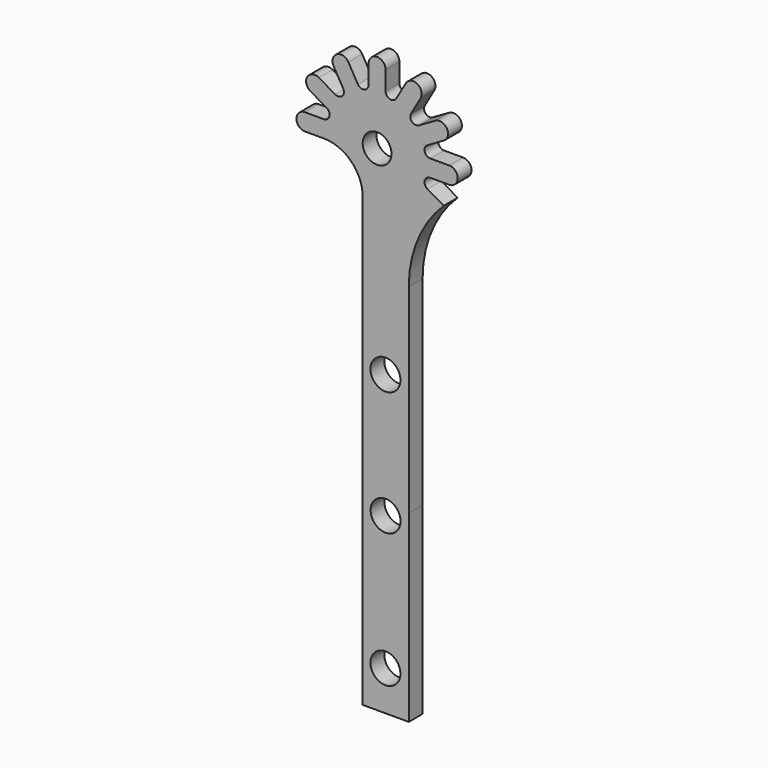
from build123d import *

# Parameters (mm, degrees)
F0_R     = 2.600347
F0_R_2   = 2.5
F1_DEPTH = 3


with BuildPart() as f1:
    # F0 (on Front) → F1 (new body)
    with BuildSketch(Plane.XZ):
        with BuildLine():
            ThreePointArc((-11.107391, 30.109689), (-10.641465, 28.984844), (-11.607391, 28.243663))
            Line((-11.607391, 28.243663), (-14.897391, 28.243663))
            ThreePointArc((-14.897391, 28.243663), (-16.372391, 26.768663), (-14.897391, 25.293663))
            Line((-14.897391, 25.293663), (-11.607391, 25.293663))
            ThreePointArc((-11.607391, 25.293663), (-6.845027, 23.321027), (-4.872391, 18.558663))
            Line((-4.872391, 18.558663), (-4.872391, -27.230971))
            Line((-4.872391, -27.230971), (-4.872391, -59.108431))
            Line((-4.872391, -59.108431), (3.131261, -59.108431))
            Line((3.131261, -59.108431), (3.131261, -27.230971))
            Line((3.131261, -27.230971), (3.13126, 7.418663))
            ThreePointArc((3.13126, 7.418663), (4.715363, 15.219607), (9.216732, 21.784801))
            Line((9.216732, 21.784801), (6.36626, 23.427638))
            ThreePointArc((6.36626, 23.427638), (5.900335, 24.552482), (6.86626, 25.293663))
            Line((6.86626, 25.293663), (10.15626, 25.293663))
            ThreePointArc((10.15626, 25.293663), (11.63126, 26.768663), (10.15626, 28.243663))
            Line((10.15626, 28.243663), (6.86626, 28.243663))
            ThreePointArc((6.86626, 28.243663), (5.900335, 28.984844), (6.36626, 30.109689))
            Line((6.36626, 30.109689), (9.215484, 31.754689))
            ThreePointArc((9.215484, 31.754689), (9.755372, 33.769576), (7.740484, 34.309464))
            Line((7.740484, 34.309464), (4.89126, 32.664464))
            ThreePointArc((4.89126, 32.664464), (3.684154, 32.823382), (3.525235, 34.030489))
            Line((3.525235, 34.030489), (5.170235, 36.879713))
            ThreePointArc((5.170235, 36.879713), (4.630348, 38.8946), (2.61546, 38.354713))
            Line((2.61546, 38.354713), (0.97046, 35.505489))
            ThreePointArc((0.97046, 35.505489), (-0.154384, 35.039563), (-0.895565, 36.005489))
            Line((-0.895565, 36.005489), (-0.895565, 39.295489))
            ThreePointArc((-0.895565, 39.295489), (-2.370565, 40.770489), (-3.845565, 39.295489))
            Line((-3.845565, 39.295489), (-3.845565, 36.005489))
            ThreePointArc((-3.845565, 36.005489), (-4.586746, 35.039563), (-5.711591, 35.505489))
            Line((-5.711591, 35.505489), (-7.356591, 38.354713))
            ThreePointArc((-7.356591, 38.354713), (-9.371478, 38.8946), (-9.911366, 36.879713))
            Line((-9.911366, 36.879713), (-8.266366, 34.030489))
            ThreePointArc((-8.266366, 34.030489), (-8.425284, 32.823382), (-9.632391, 32.664464))
            Line((-9.632391, 32.664464), (-12.481615, 34.309464))
            ThreePointArc((-12.481615, 34.309464), (-14.496502, 33.769576), (-13.956615, 31.754689))
            Line((-13.956615, 31.754689), (-11.107391, 30.109689))
        make_face()
        with Locations((-0.91964, -52.217755)):
            Circle(F0_R, mode=Mode.SUBTRACT)
        with Locations((-0.892788, -28.898051)):
            Circle(F0_R, mode=Mode.SUBTRACT)
        with Locations((-2.372391, 26.768663)):
            Circle(F0_R_2, mode=Mode.SUBTRACT)
        with Locations((-0.91964, -7.323526)):
            Circle(F0_R, mode=Mode.SUBTRACT)
    extrude(amount=F1_DEPTH)


solid = f1.part
